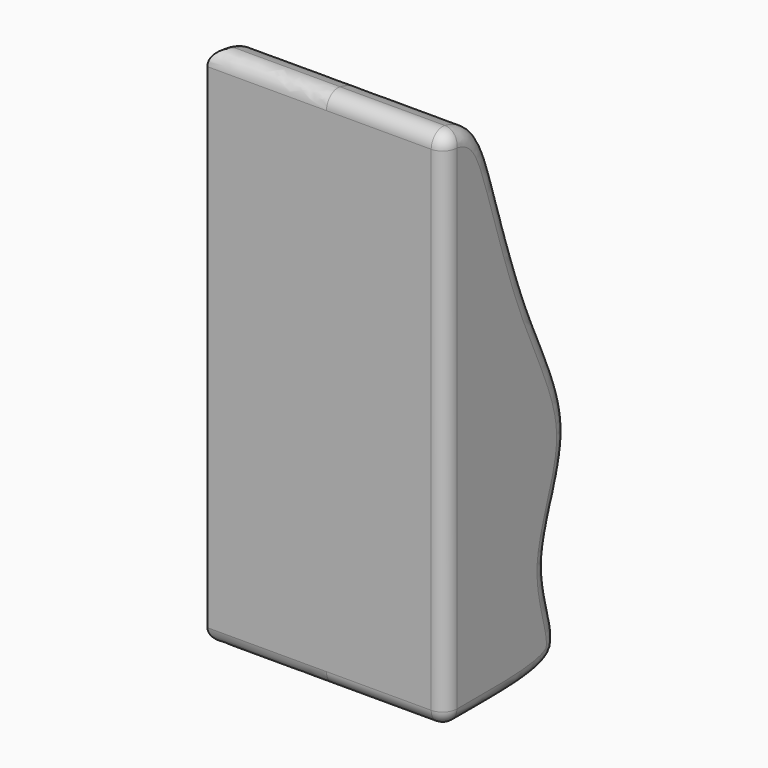
from build123d import *

# Parameters (mm, degrees)
PAD004_DEPTH = 50
FILLET073_R  = 6
FILLET074_R  = 3


with BuildPart() as part:
    # Sketch151 → Pad004 (new body, symmetric)
    with BuildSketch(Plane.YZ):
        with BuildLine():
            Line((-62, 180), (-62, -40))
            add(Edge.make_bspline(
                [(-62, -40), (-28.602824, -40), (9.375834, -41.535614), (-17.31007, 0.343139), (12.33455, 44.176135), (-17.721384, 95.58099), (-36.839079, 162.671751), (-44.692215, 180), (-62, 180)],
                knots=[0, 0, 0, 0, 0.166667, 0.333333, 0.5, 0.666667, 0.833333, 1, 1, 1, 1], degree=3))
        make_face()
    extrude(amount=PAD004_DEPTH, both=True)

    # Fillet073
    fillet073_edges = [part.edges().sort_by_distance(p)[0] for p in [
        (50, -62, 70),
        (50, 1.588759, 53.415026),
        (0, -62, 180),
        (-50, 1.588759, 53.415026),
        (0, -62, -40),
    ]]
    fillet(fillet073_edges, radius=FILLET073_R)

    # Sketch152 → Groove072 (revolve, cut)
    with BuildSketch(Plane.XY):
        with BuildLine():
            Line((0, 25), (0, -25))
            ThreePointArc((0, -25), (25, 0), (0, 25))
        make_face()
    revolve(axis=Axis((0, 0, 0), (0, 1, 0)), mode=Mode.SUBTRACT)

    # Fillet074
    fillet074_edges = [part.edges().sort_by_distance(p)[0] for p in [
        (-23.174151, -7.37844, 5.789418),
        (23.200364, -7.63595, -5.332483),
    ]]
    fillet(fillet074_edges, radius=FILLET074_R)


with BuildPart() as part_1:
    # Body045 placement: moved
    add(part.part.moved(Location((75, 63.953585, -66.173131))))


solid = part_1.part
